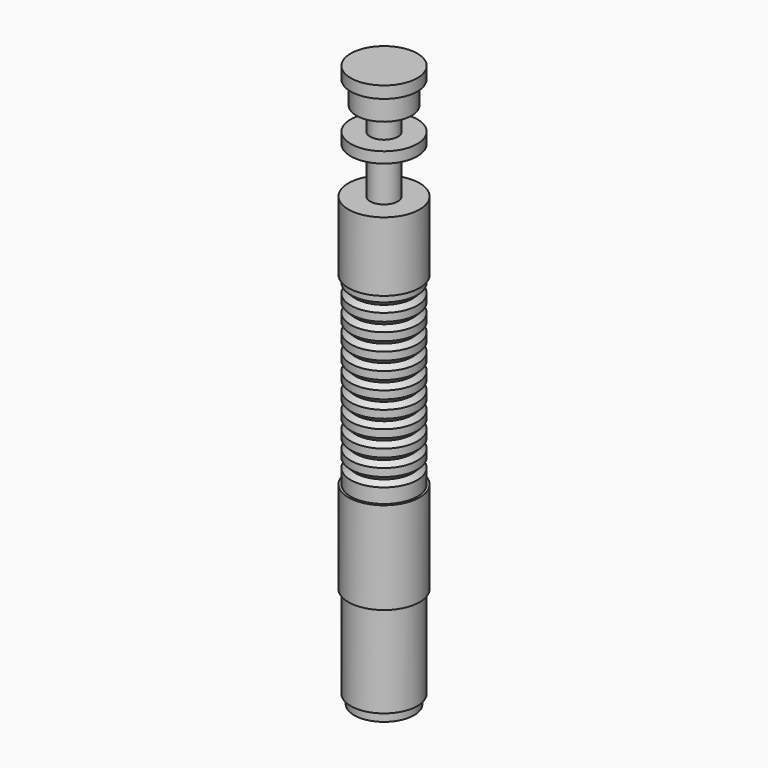
from build123d import *


with BuildPart() as f1:
    # F0 (on Front) → F1 (revolve)
    with BuildSketch(Plane.XZ):
        Polygon((18.3515, 169.928648), (0, 169.928648), (0, -139.774444), (16.51, -139.774444), (16.51, -134.694444), (18.3515, -134.694444), (18.3515, -83.894444), (19.6215, -83.894444), (19.6215, -33.094444), (18.3515, -33.094444), (18.3515, -25.066849), (15.8115, -22.526849), (18.3515, -19.986849), (18.3515, -15.657693), (15.8115, -13.117693), (18.3515, -10.577693), (18.3515, -6.248537), (15.8115, -3.708537), (18.3515, -1.168537), (18.3515, 3.160619), (15.8115, 5.700619), (18.3515, 8.240619), (18.3515, 12.569775), (15.8115, 15.109775), (18.3515, 17.649775), (18.3515, 21.978932), (15.8115, 24.518932), (18.3515, 27.058932), (18.3515, 31.388088), (15.8115, 33.928088), (18.3515, 36.468088), (18.3515, 40.797244), (15.8115, 43.337244), (18.3515, 45.877244), (18.3515, 50.2064), (15.8115, 52.7464), (18.3515, 55.2864), (18.3515, 59.615556), (15.8115, 62.155556), (18.3515, 64.695556), (18.3515, 68.505556), (19.6215, 68.505556), (19.6215, 106.605556), (18.3515, 106.605556), (7.62, 106.605556), (7.62, 132.005556), (18.3515, 132.005556), (18.3515, 137.994862), (7.62, 137.994862), (7.62, 150.694862), (15.24, 150.694862), (15.24, 163.394862), (18.3515, 163.394862), align=None)
    revolve(axis=Axis((0, 0, 15.077102), (0, 0, 1)))


solid = f1.part
